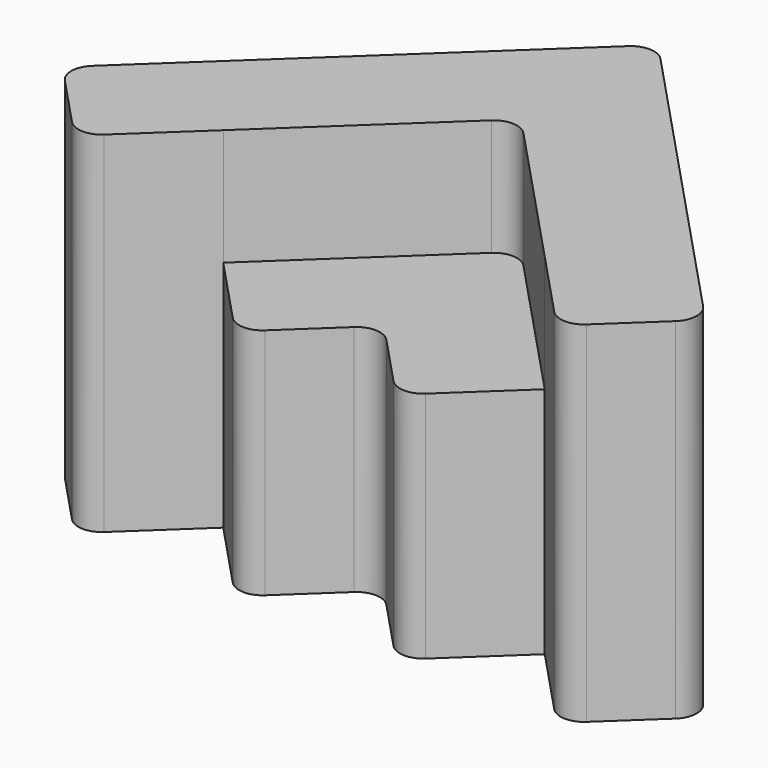
from build123d import *

# Parameters (mm, degrees)
F1_DEPTH = 25.4
F3_DEPTH = 25.4
F5_DEPTH = 50.8
F6_R     = 5.08
F7_R     = 5.08
F8_R     = 5.08
F9_R     = 5.08
F10_R    = 5.08
F11_R    = 5.08
F12_R    = 5.08
F13_R    = 5.08
F14_R    = 5.08


with BuildPart() as f1:
    # F0 (on Top) → F1 (new body)
    with BuildSketch(Plane.XY):
        Polygon((69.5630275399, -20.6164596444), (0, 53.434503884), (-74.0509635284, -16.1285236559), (-56.6602066435, -34.641264538), (-38.1474657613, -17.250507653), (-20.7567088764, -35.7632485351), (-2.2439679943, -18.3724916501), (15.1467888907, -36.8852325322), (33.6595297728, -19.4944756473), (51.0502866578, -38.0072165294), align=None)
    extrude(amount=F1_DEPTH)

    # F2 (on face) → F3 (join)
    with BuildSketch(Plane.XY.offset(25.4)):
        Polygon((-1.1219839971, 17.5310061169), (-38.1474657613, -17.250507653), (-20.7567088764, -35.7632485351), (-2.2439679943, -18.3724916501), (15.1467888907, -36.8852325322), (33.6595297728, -19.4944756473), align=None)
    extrude(amount=F3_DEPTH)

    # F4 (on face) → F5 (join)
    with BuildSketch(Plane.XY.offset(25.4)):
        Polygon((33.6595297728, -19.4944756473), (51.0502866578, -38.0072165294), (69.5630275399, -20.6164596444), (0, 53.434503884), (-74.0509635284, -16.1285236559), (-56.6602066435, -34.641264538), (-38.1474657613, -17.250507653), (-1.1219839971, 17.5310061169), align=None)
    extrude(amount=F5_DEPTH)

    # F6
    f6_edges = [f1.edges().sort_by_distance(p)[0] for p in [
        (-1.121984, 17.531006, 63.5),
    ]]
    fillet(f6_edges, radius=F6_R)

    # F7
    f7_edges = [f1.edges().sort_by_distance(p)[0] for p in [
        (-2.243968, -18.372492, 25.4),
    ]]
    fillet(f7_edges, radius=F7_R)

    # F8
    f8_edges = [f1.edges().sort_by_distance(p)[0] for p in [
        (15.146789, -36.885233, 25.4),
    ]]
    fillet(f8_edges, radius=F8_R)

    # F9
    f9_edges = [f1.edges().sort_by_distance(p)[0] for p in [
        (-20.756709, -35.763249, 25.4),
    ]]
    fillet(f9_edges, radius=F9_R)

    # F10
    f10_edges = [f1.edges().sort_by_distance(p)[0] for p in [
        (0, 53.434504, 38.1),
    ]]
    fillet(f10_edges, radius=F10_R)

    # F11
    f11_edges = [f1.edges().sort_by_distance(p)[0] for p in [
        (-74.050964, -16.128524, 38.1),
    ]]
    fillet(f11_edges, radius=F11_R)

    # F12
    f12_edges = [f1.edges().sort_by_distance(p)[0] for p in [
        (69.563028, -20.61646, 38.1),
    ]]
    fillet(f12_edges, radius=F12_R)

    # F13
    f13_edges = [f1.edges().sort_by_distance(p)[0] for p in [
        (-56.660207, -34.641265, 38.1),
    ]]
    fillet(f13_edges, radius=F13_R)

    # F14
    f14_edges = [f1.edges().sort_by_distance(p)[0] for p in [
        (51.050287, -38.007217, 38.1),
    ]]
    fillet(f14_edges, radius=F14_R)


solid = f1.part
